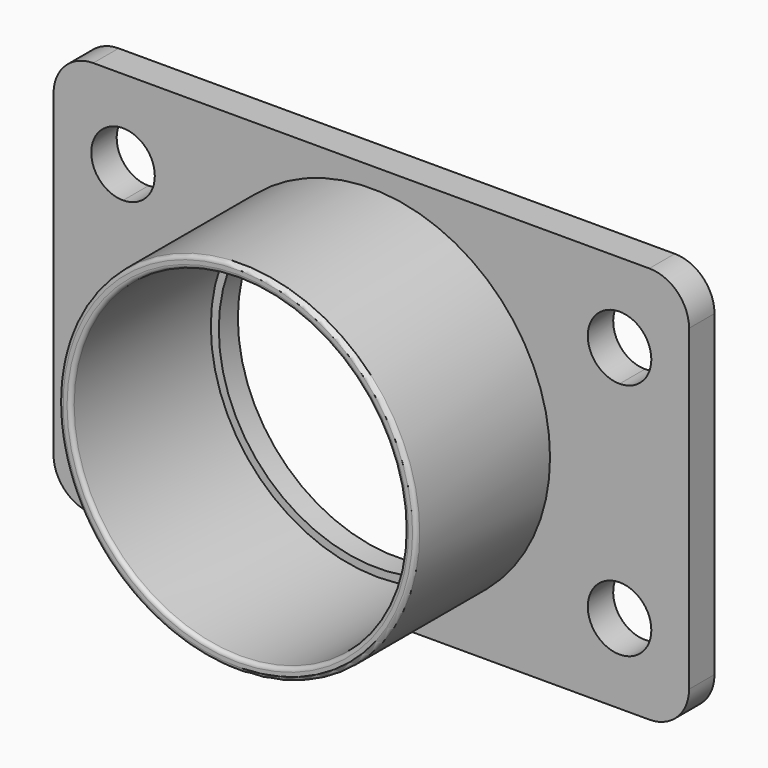
from build123d import *

# Parameters (mm, degrees)
F0_R     = 22.5
F1_DEPTH = 4
F0_R_2   = 21
F2_DEPTH = 25
F3_R     = 5
F4_R     = 0.5
F0_R_3   = 20
F5_DEPTH = 3


with BuildPart() as f1:
    # F0 (on Front) → F1 (new body)
    with BuildSketch(Plane.XZ):
        Polygon((40, 25), (-40, 25), (-40, 0), (-40, -25), (40, -25), (40, 0), align=None)
        with BuildLine():
            ThreePointArc((-27.25, -15), (-34.078427, -17.828427), (-31.25, -11))
            ThreePointArc((-31.25, -11), (-28.421573, -12.171573), (-27.25, -15))
        make_face(mode=Mode.SUBTRACT)
        with BuildLine():
            ThreePointArc((35.25, -15), (28.421573, -17.828427), (31.25, -11))
            ThreePointArc((31.25, -11), (34.078427, -12.171573), (35.25, -15))
        make_face(mode=Mode.SUBTRACT)
        with BuildLine():
            ThreePointArc((-27.25, 15), (-28.421573, 12.171573), (-31.25, 11))
            ThreePointArc((-31.25, 11), (-34.078427, 17.828427), (-27.25, 15))
        make_face(mode=Mode.SUBTRACT)
        Circle(F0_R, mode=Mode.SUBTRACT)
        with BuildLine():
            ThreePointArc((35.25, 15), (34.078427, 12.171573), (31.25, 11))
            ThreePointArc((31.25, 11), (28.421573, 17.828427), (35.25, 15))
        make_face(mode=Mode.SUBTRACT)
    extrude(amount=F1_DEPTH)

    # F0 (on Front) → F2 (join)
    with BuildSketch(Plane.XZ):
        Circle(F0_R)
        Circle(F0_R_2, mode=Mode.SUBTRACT)
    extrude(amount=F2_DEPTH)

    # F3
    f3_edges = [f1.edges().sort_by_distance(p)[0] for p in [
        (-40, -2, -25),
        (-40, -2, 25),
        (40, -2, 25),
        (40, -2, -25),
    ]]
    fillet(f3_edges, radius=F3_R)

    # F4
    f4_edges = [f1.edges().sort_by_distance(p)[0] for p in [
        (-22.5, -25, 0),
        (-21, -25, 0),
    ]]
    fillet(f4_edges, radius=F4_R)

    # F0 (on Front) → F5 (join)
    with BuildSketch(Plane.XZ):
        Circle(F0_R_2)
        Circle(F0_R_3, mode=Mode.SUBTRACT)
    extrude(amount=F5_DEPTH)


solid = f1.part
